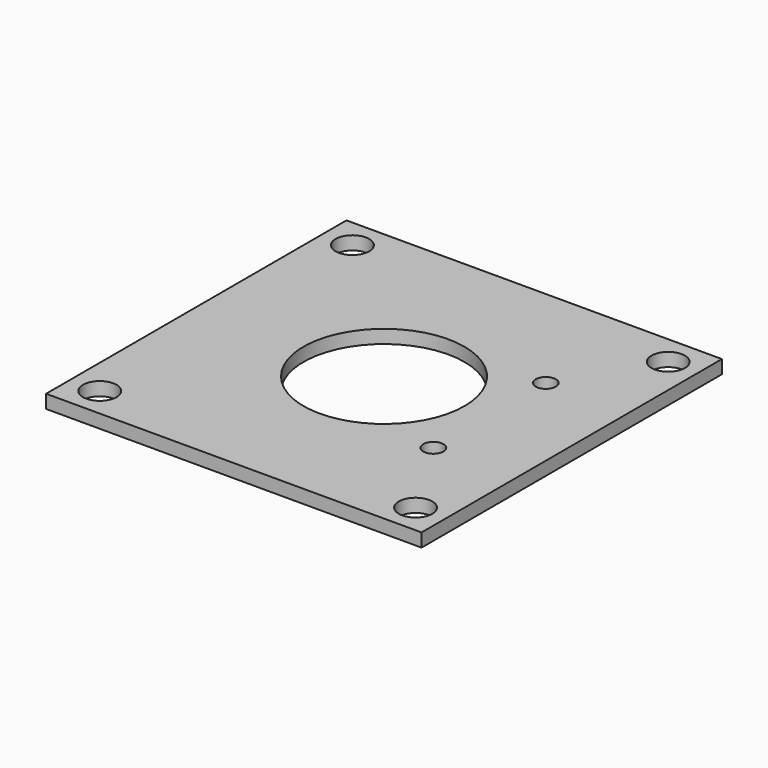
from build123d import *

# Parameters (mm, degrees)
BOX274_W                    = 56
BOX274_H                    = 56
BOX274_DEPTH                = 2
CYLINDER704_R               = 1.5
CYLINDER704_DEPTH           = 20
CYLINDER705_R               = 1.5
CYLINDER705_DEPTH           = 20
COMPOUND417_PLACEMENT_ANGLE = 90
BOX272_W                    = 20
BOX272_H                    = 8
BOX272_DEPTH                = 3
BOX271_W                    = 20
BOX271_H                    = 8
BOX271_DEPTH                = 3
BOX273_W                    = 20
BOX273_H                    = 8
BOX273_DEPTH                = 3
BOX269_W                    = 20
BOX269_H                    = 8
BOX269_DEPTH                = 3
CYLINDER697_R               = 12
CYLINDER697_DEPTH           = 20
CYLINDER702_R               = 5
CYLINDER702_DEPTH           = 4
CYLINDER689_R               = 5
CYLINDER689_DEPTH           = 4
CYLINDER693_R               = 5
CYLINDER693_DEPTH           = 4
CYLINDER698_R               = 5
CYLINDER698_DEPTH           = 4
CYLINDER699_R               = 2.5
CYLINDER699_DEPTH           = 20
CYLINDER690_R               = 2.5
CYLINDER690_DEPTH           = 20
CYLINDER694_R               = 2.5
CYLINDER694_DEPTH           = 20
CYLINDER700_R               = 2.5
CYLINDER700_DEPTH           = 20
CYLINDER696_R               = 3
CYLINDER696_DEPTH           = 5
CYLINDER696_PLACEMENT_ANGLE = 22.5
CYLINDER688_R               = 3
CYLINDER688_DEPTH           = 5
CYLINDER688_PLACEMENT_ANGLE = 67.5
CYLINDER691_R               = 3
CYLINDER691_DEPTH           = 5
CYLINDER691_PLACEMENT_ANGLE = 202.5
CYLINDER692_R               = 3
CYLINDER692_DEPTH           = 5
CYLINDER692_PLACEMENT_ANGLE = 112.5
COMPOUND416_PLACEMENT_ANGLE = 45
CYLINDER703_R               = 1.5
CYLINDER703_DEPTH           = 30
CYLINDER703_PLACEMENT_ANGLE = 22.5
CYLINDER695_R               = 1.5
CYLINDER695_DEPTH           = 30
CYLINDER695_PLACEMENT_ANGLE = 67.5
CYLINDER706_R               = 1.5
CYLINDER706_DEPTH           = 30
CYLINDER706_PLACEMENT_ANGLE = 202.5
CYLINDER701_R               = 1.5
CYLINDER701_DEPTH           = 30
CYLINDER701_PLACEMENT_ANGLE = 112.5
COMPOUND412_PLACEMENT_ANGLE = 45
BOX270_W                    = 68
BOX270_H                    = 64
BOX270_DEPTH                = 8


with BuildPart() as krychle274:
    # Box274 → Box274 (new body)
    with BuildSketch(Plane(origin=(-28, -28, -68), x_dir=(1, 0, 0), z_dir=(0, 0, 1))):
        with Locations((28, 28)):
            Rectangle(BOX274_W, BOX274_H)
    extrude(amount=BOX274_DEPTH)


with BuildPart() as obj1:
    # Cylinder704 → Cylinder704 (new body)
    with BuildSketch(Plane(origin=(15.75, 114, 59.48), x_dir=(-1, 0, 0), z_dir=(0, 1, 0))):
        Circle(CYLINDER704_R)
    extrude(amount=CYLINDER704_DEPTH)


with BuildPart() as compound417:
    # Cylinder705 → Cylinder705 (new body)
    with BuildSketch(Plane(origin=(15.75, 114, 38.52), x_dir=(-1, 0, 0), z_dir=(0, 1, 0))):
        Circle(CYLINDER705_R)
    extrude(amount=CYLINDER705_DEPTH)

    # Compound417: union obj1
    add(obj1.part)


with BuildPart() as compound417_1:
    # Compound417 placement: moved
    add(compound417.part.moved(Location((0, 49, -200))).rotate(Axis((0, 49, -200), (1, 0, 0)), COMPOUND417_PLACEMENT_ANGLE))


with BuildPart() as krychle272:
    # Box272 → Box272 (new body)
    with BuildSketch(Plane(origin=(17.55, -27.55, 31), x_dir=(1, 0, 0), z_dir=(0, 0, 1))):
        with Locations((10, 4)):
            Rectangle(BOX272_W, BOX272_H)
    extrude(amount=BOX272_DEPTH)


with BuildPart() as krychle271:
    # Box271 → Box271 (new body)
    with BuildSketch(Plane(origin=(-37.45, 19.55, 31), x_dir=(1, 0, 0), z_dir=(0, 0, 1))):
        with Locations((10, 4)):
            Rectangle(BOX271_W, BOX271_H)
    extrude(amount=BOX271_DEPTH)


with BuildPart() as krychle273:
    # Box273 → Box273 (new body)
    with BuildSketch(Plane(origin=(-37.45, -27.55, 31), x_dir=(1, 0, 0), z_dir=(0, 0, 1))):
        with Locations((10, 4)):
            Rectangle(BOX273_W, BOX273_H)
    extrude(amount=BOX273_DEPTH)


with BuildPart() as compound413:
    # Box269 → Box269 (new body)
    with BuildSketch(Plane(origin=(17.55, 19.55, 31), x_dir=(1, 0, 0), z_dir=(0, 0, 1))):
        with Locations((10, 4)):
            Rectangle(BOX269_W, BOX269_H)
    extrude(amount=BOX269_DEPTH)

    # Compound413: union Krychle272, Krychle271, Krychle273
    add(krychle272.part)
    add(krychle271.part)
    add(krychle273.part)


with BuildPart() as compound413_1:
    # Compound413 placement: moved
    add(compound413.part.moved(Location((0, 0, -4))))


with BuildPart() as obj2:
    # Cylinder697 → Cylinder697 (new body)
    with BuildSketch(Plane.XY.offset(15)):
        Circle(CYLINDER697_R)
    extrude(amount=CYLINDER697_DEPTH)


with BuildPart() as obj3:
    # Cylinder702 → Cylinder702 (new body)
    with BuildSketch(Plane(origin=(23.55, 23.55, 26), x_dir=(1, 0, 0), z_dir=(0, 0, 1))):
        Circle(CYLINDER702_R)
    extrude(amount=CYLINDER702_DEPTH)


with BuildPart() as obj4:
    # Cylinder689 → Cylinder689 (new body)
    with BuildSketch(Plane(origin=(23.55, -23.55, 26), x_dir=(1, 0, 0), z_dir=(0, 0, 1))):
        Circle(CYLINDER689_R)
    extrude(amount=CYLINDER689_DEPTH)


with BuildPart() as obj5:
    # Cylinder693 → Cylinder693 (new body)
    with BuildSketch(Plane(origin=(-23.55, 23.55, 26), x_dir=(1, 0, 0), z_dir=(0, 0, 1))):
        Circle(CYLINDER693_R)
    extrude(amount=CYLINDER693_DEPTH)


with BuildPart() as compound415:
    # Cylinder698 → Cylinder698 (new body)
    with BuildSketch(Plane(origin=(-23.55, -23.55, 26), x_dir=(1, 0, 0), z_dir=(0, 0, 1))):
        Circle(CYLINDER698_R)
    extrude(amount=CYLINDER698_DEPTH)

    # Compound415: union obj3, obj4, obj5
    add(obj3.part)
    add(obj4.part)
    add(obj5.part)


with BuildPart() as compound415_1:
    # Compound415 placement: moved
    add(compound415.part.moved(Location((0, 0, -50))))


with BuildPart() as obj6:
    # Cylinder699 → Cylinder699 (new body)
    with BuildSketch(Plane(origin=(-23.55, 23.55, 20), x_dir=(1, 0, 0), z_dir=(0, 0, 1))):
        Circle(CYLINDER699_R)
    extrude(amount=CYLINDER699_DEPTH)


with BuildPart() as obj7:
    # Cylinder690 → Cylinder690 (new body)
    with BuildSketch(Plane(origin=(-23.55, -23.55, 20), x_dir=(1, 0, 0), z_dir=(0, 0, 1))):
        Circle(CYLINDER690_R)
    extrude(amount=CYLINDER690_DEPTH)


with BuildPart() as obj8:
    # Cylinder694 → Cylinder694 (new body)
    with BuildSketch(Plane(origin=(23.55, -23.55, 20), x_dir=(1, 0, 0), z_dir=(0, 0, 1))):
        Circle(CYLINDER694_R)
    extrude(amount=CYLINDER694_DEPTH)


with BuildPart() as compound414:
    # Cylinder700 → Cylinder700 (new body)
    with BuildSketch(Plane(origin=(23.55, 23.55, 20), x_dir=(1, 0, 0), z_dir=(0, 0, 1))):
        Circle(CYLINDER700_R)
    extrude(amount=CYLINDER700_DEPTH)

    # Compound414: union obj6, obj7, obj8
    add(obj6.part)
    add(obj7.part)
    add(obj8.part)


with BuildPart() as obj9:
    # Cylinder696 → Cylinder696 (new body)
    with BuildSketch(Plane.XY):
        Circle(CYLINDER696_R)
    extrude(amount=CYLINDER696_DEPTH)


with BuildPart() as obj9_1:
    # Cylinder696 placement: moved
    add(obj9.part.moved(Location((-16, 0, 2))).rotate(Axis((-16, 0, 2), (0, 0, 1)), CYLINDER696_PLACEMENT_ANGLE))


with BuildPart() as obj10:
    # Cylinder688 → Cylinder688 (new body)
    with BuildSketch(Plane.XY):
        Circle(CYLINDER688_R)
    extrude(amount=CYLINDER688_DEPTH)


with BuildPart() as obj10_1:
    # Cylinder688 placement: moved
    add(obj10.part.moved(Location((0, 16, 2))).rotate(Axis((0, 16, 2), (0, 0, -1)), CYLINDER688_PLACEMENT_ANGLE))


with BuildPart() as obj11:
    # Cylinder691 → Cylinder691 (new body)
    with BuildSketch(Plane.XY):
        Circle(CYLINDER691_R)
    extrude(amount=CYLINDER691_DEPTH)


with BuildPart() as obj11_1:
    # Cylinder691 placement: moved
    add(obj11.part.moved(Location((16, 0, 2))).rotate(Axis((16, 0, 2), (0, 0, 1)), CYLINDER691_PLACEMENT_ANGLE))


with BuildPart() as compound416:
    # Cylinder692 → Cylinder692 (new body)
    with BuildSketch(Plane.XY):
        Circle(CYLINDER692_R)
    extrude(amount=CYLINDER692_DEPTH)


with BuildPart() as compound416_1:
    # Cylinder692 placement: moved
    add(compound416.part.moved(Location((0, -16, 2))).rotate(Axis((0, -16, 2), (0, 0, 1)), CYLINDER692_PLACEMENT_ANGLE))

    # Compound416: union obj9, obj10, obj11
    add(obj9_1.part)
    add(obj10_1.part)
    add(obj11_1.part)


with BuildPart() as compound416_2:
    # Compound416 placement: moved
    add(compound416_1.part.moved(Location((0, 0, 18))).rotate(Axis((0, 0, 18), (0, 0, 1)), COMPOUND416_PLACEMENT_ANGLE))


with BuildPart() as obj12:
    # Cylinder703 → Cylinder703 (new body)
    with BuildSketch(Plane.XY):
        Circle(CYLINDER703_R)
    extrude(amount=CYLINDER703_DEPTH)


with BuildPart() as obj12_1:
    # Cylinder703 placement: moved
    add(obj12.part.moved(Location((-16, 0, 2))).rotate(Axis((-16, 0, 2), (0, 0, 1)), CYLINDER703_PLACEMENT_ANGLE))


with BuildPart() as obj13:
    # Cylinder695 → Cylinder695 (new body)
    with BuildSketch(Plane.XY):
        Circle(CYLINDER695_R)
    extrude(amount=CYLINDER695_DEPTH)


with BuildPart() as obj13_1:
    # Cylinder695 placement: moved
    add(obj13.part.moved(Location((0, 16, 2))).rotate(Axis((0, 16, 2), (0, 0, -1)), CYLINDER695_PLACEMENT_ANGLE))


with BuildPart() as obj14:
    # Cylinder706 → Cylinder706 (new body)
    with BuildSketch(Plane.XY):
        Circle(CYLINDER706_R)
    extrude(amount=CYLINDER706_DEPTH)


with BuildPart() as obj14_1:
    # Cylinder706 placement: moved
    add(obj14.part.moved(Location((16, 0, 2))).rotate(Axis((16, 0, 2), (0, 0, 1)), CYLINDER706_PLACEMENT_ANGLE))


with BuildPart() as compound412:
    # Cylinder701 → Cylinder701 (new body)
    with BuildSketch(Plane.XY):
        Circle(CYLINDER701_R)
    extrude(amount=CYLINDER701_DEPTH)


with BuildPart() as compound412_1:
    # Cylinder701 placement: moved
    add(compound412.part.moved(Location((0, -16, 2))).rotate(Axis((0, -16, 2), (0, 0, 1)), CYLINDER701_PLACEMENT_ANGLE))

    # Compound412: union obj12, obj13, obj14
    add(obj12_1.part)
    add(obj13_1.part)
    add(obj14_1.part)


with BuildPart() as compound412_2:
    # Compound412 placement: moved
    add(compound412_1.part.moved(Location((0, 0, 50))).rotate(Axis((0, 0, 50), (0, 0, 1)), COMPOUND412_PLACEMENT_ANGLE))


with BuildPart() as common002:
    # Box270 → Box270 (new body)
    with BuildSketch(Plane(origin=(-34, -32, 26), x_dir=(1, 0, 0), z_dir=(0, 0, 1))):
        with Locations((34, 32)):
            Rectangle(BOX270_W, BOX270_H)
    extrude(amount=BOX270_DEPTH)

    # Cut275: cut Compound412
    add(compound412_2.part, mode=Mode.SUBTRACT)

    # Cut274: cut Compound416
    add(compound416_2.part, mode=Mode.SUBTRACT)

    # Cut273: cut Compound414
    add(compound414.part, mode=Mode.SUBTRACT)

    # Cut278: cut Compound415
    add(compound415_1.part, mode=Mode.SUBTRACT)

    # Cut277: cut obj2
    add(obj2.part, mode=Mode.SUBTRACT)

    # Cut276: cut Compound413
    add(compound413_1.part, mode=Mode.SUBTRACT)


with BuildPart() as common002_1:
    # Cut276 placement: moved
    add(common002.part.moved(Location((0, 0, -100))))

    # Cut279: cut Compound417
    add(compound417_1.part, mode=Mode.SUBTRACT)

    # Common002: intersect Krychle274
    add(krychle274.part, mode=Mode.INTERSECT)


solid = common002_1.part
